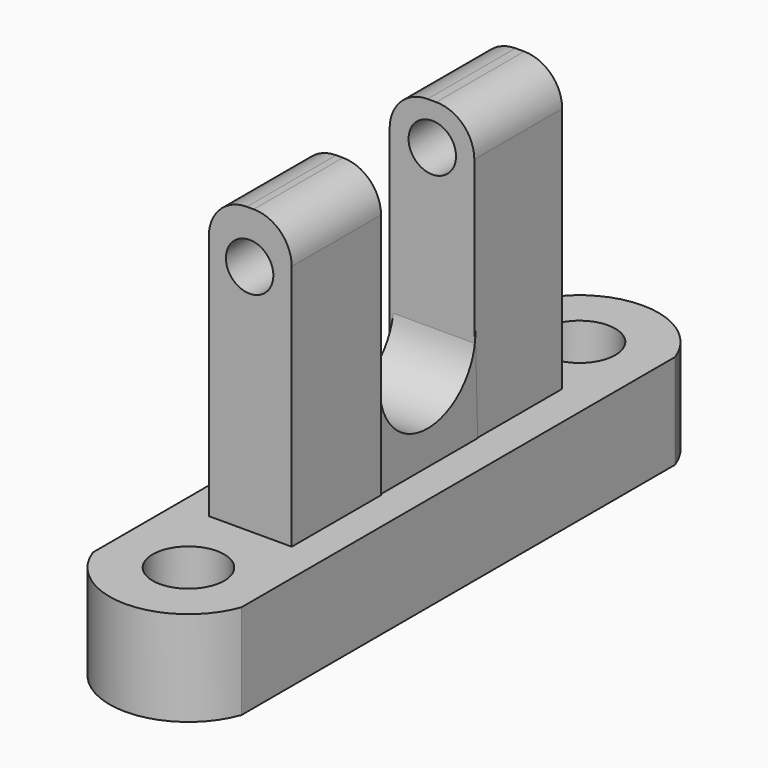
from build123d import *

# Parameters (mm, degrees)
F0_R      = 4.789486544
F1_DEPTH  = 12.7
F2_W      = 11.0857239924
F2_H      = 14.9416252971
F3_DEPTH  = 38.1
F5_D      = 6.35
F6_R      = 5.08
F8_W      = 11.3267181441
F8_H      = 14.700633008
F9_DEPTH  = 38.1
F11_D     = 6.35
F11_DEPTH = 25.4
F11_TIP   = 1.9077324654
F12_R     = 5.08
F14_DEPTH = 10.922


with BuildPart() as f1:
    # F0 (on Top) → F1 (new body)
    with BuildSketch(Plane.XY):
        with BuildLine():
            ThreePointArc((0, 32.4136912823), (-9.941002354, 39.4109395409), (-19.8820047081, 32.4136912823))
            Line((-19.8820047081, 32.4136912823), (-19.8820047081, -40.1254966855))
            ThreePointArc((-19.8820047081, -40.1254966855), (-9.941002354, -47.1227449441), (0, -40.1254966855))
            Line((0, -40.1254966855), (0, 32.4136912823))
        make_face()
        with Locations((-9.941002354, -36.5625214439)):
            Circle(F0_R, mode=Mode.SUBTRACT)
        with Locations((-9.941002354, 28.8507160407)):
            Circle(F0_R, mode=Mode.SUBTRACT)
    extrude(amount=F1_DEPTH)

    # F2 (on face) → F3 (join)
    with BuildSketch(Plane.XY.offset(12.7)):
        with Locations((-10.0012498442, -18.677033484)):
            Rectangle(F2_W, F2_H)
    extrude(amount=F3_DEPTH)

    # F5 (through all)
    with Locations(Plane.XZ.offset(26.1478461325)):
        with Locations((-10.0886579603, 43.8547693193)):
            Hole(F5_D / 2)

    # F6
    f6_edges = [f1.edges().sort_by_distance(p)[0] for p in [
        (-4.458388, -18.677033, 50.8),
        (-15.544112, -18.677033, 50.8),
    ]]
    fillet(f6_edges, radius=F6_R)

    # F8 (on face) → F9 (join)
    with BuildSketch(Plane.XY.offset(12.7)):
        with Locations((-10.3627410717, 12.0496989693)):
            Rectangle(F8_W, F8_H)
    extrude(amount=F9_DEPTH)

    # F11
    with Locations(Plane(origin=(0, 19.4000154734, 0), x_dir=(-1, 0, 0), z_dir=(0, 1, 0))):
        with Locations((10.3249410167, 45.2776290476)):
            Hole(F11_D / 2, depth=F11_DEPTH)
            with Locations((0, 0, -(F11_DEPTH + F11_TIP / 2))):  # 118° drill point
                Cone(0, F11_D / 2, F11_TIP, mode=Mode.SUBTRACT)

    # F12
    f12_edges = [f1.edges().sort_by_distance(p)[0] for p in [
        (-4.699382, 12.049699, 50.8),
        (-16.0261, 12.049699, 50.8),
    ]]
    fillet(f12_edges, radius=F12_R)

    # F13 (on face) → F14 (join)
    with BuildSketch(Plane(origin=(-15.5441118404, 0, 0), x_dir=(0, -1, 0), z_dir=(-1, 0, 0))):
        with BuildLine():
            Line((11.2062208354, 25.3779198974), (11.2062208354, 25.1054665343))
            ThreePointArc((11.2062208354, 25.1054665343), (11.2073811699, 25.2416932159), (11.2062208354, 25.3779198974))
        make_face()
        with BuildLine():
            ThreePointArc((11.2062208354, 25.1054665343), (3.0232009523, 17.2465905604), (-4.783663433, 25.4792459309))
            Line((-4.783663433, 25.4792459309), (-5.1880729605, 11.8706798134))
            Line((-5.1880729605, 11.8706798134), (11.2062208354, 12.7))
            Line((11.2062208354, 12.7), (11.2062208354, 25.1054665343))
        make_face()
    extrude(amount=-F14_DEPTH)


solid = f1.part
